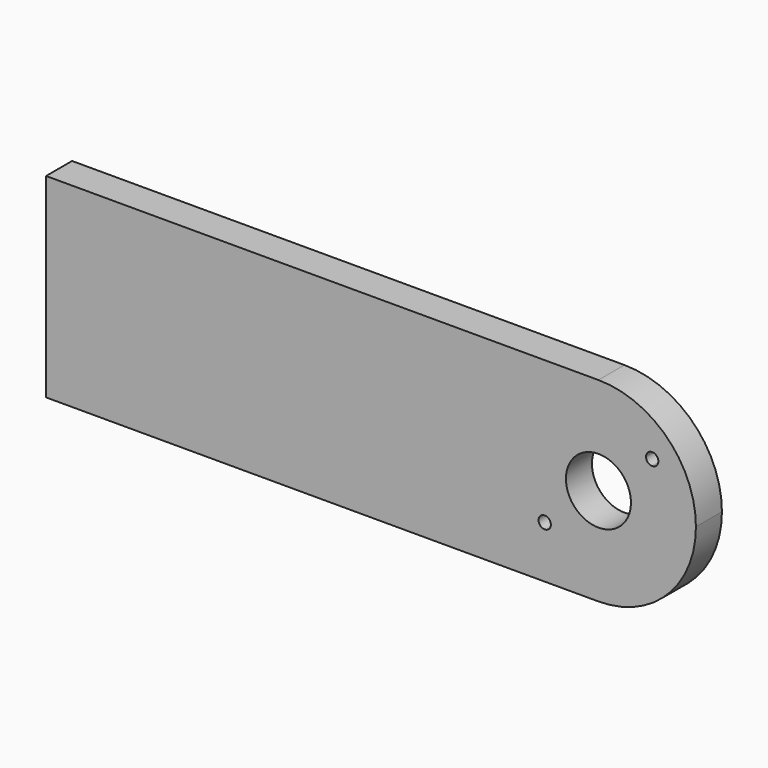
from build123d import *

# Parameters (mm, degrees)
F1_DEPTH = 12.7
F3_DEPTH = 25.4


with BuildPart() as f1:
    # F0 (on Front) → F1 (new body)
    with BuildSketch(Plane.XZ):
        with BuildLine():
            Line((0, 38.1), (0, 0))
            Line((0, 0), (215.9, 0))
            ThreePointArc((215.9, 0), (242.840768, 11.159232), (254, 38.1))
            ThreePointArc((254, 38.1), (242.840768, 65.040768), (215.9, 76.2))
            Line((215.9, 76.2), (0, 76.2))
            Line((0, 76.2), (0, 38.1))
        make_face()
        with BuildLine():
            ThreePointArc((228.6, 38.1), (215.9, 25.4), (203.2, 38.1))
            ThreePointArc((203.2, 38.1), (215.9, 50.8), (228.6, 38.1))
        make_face(mode=Mode.SUBTRACT)
    extrude(amount=F1_DEPTH)

    # F2 (on face) → F3 (cut)
    with BuildSketch(Plane.XZ.offset(12.7)):
        with BuildLine():
            Line((194.8942, 20.3708), (194.8942, 22.7838))
            ThreePointArc((194.8942, 22.7838), (193.187951, 18.664551), (197.3072, 20.3708))
            Line((197.3072, 20.3708), (194.8942, 20.3708))
        make_face()
        with BuildLine():
            ThreePointArc((197.3072, 20.3708), (196.600449, 22.077049), (194.8942, 22.7838))
            Line((194.8942, 22.7838), (194.8942, 20.3708))
            Line((194.8942, 20.3708), (197.3072, 20.3708))
        make_face()
        with BuildLine():
            Line((236.9058, 55.8292), (234.4928, 55.8292))
            ThreePointArc((234.4928, 55.8292), (235.199551, 54.122951), (236.9058, 53.4162))
            Line((236.9058, 53.4162), (236.9058, 55.8292))
        make_face()
        with BuildLine():
            ThreePointArc((239.3188, 55.8292), (236.9058, 58.2422), (234.4928, 55.8292))
            Line((234.4928, 55.8292), (236.9058, 55.8292))
            Line((236.9058, 55.8292), (236.9058, 53.4162))
            ThreePointArc((236.9058, 53.4162), (238.612049, 54.122951), (239.3188, 55.8292))
        make_face()
    extrude(amount=-F3_DEPTH, mode=Mode.SUBTRACT)


solid = f1.part
